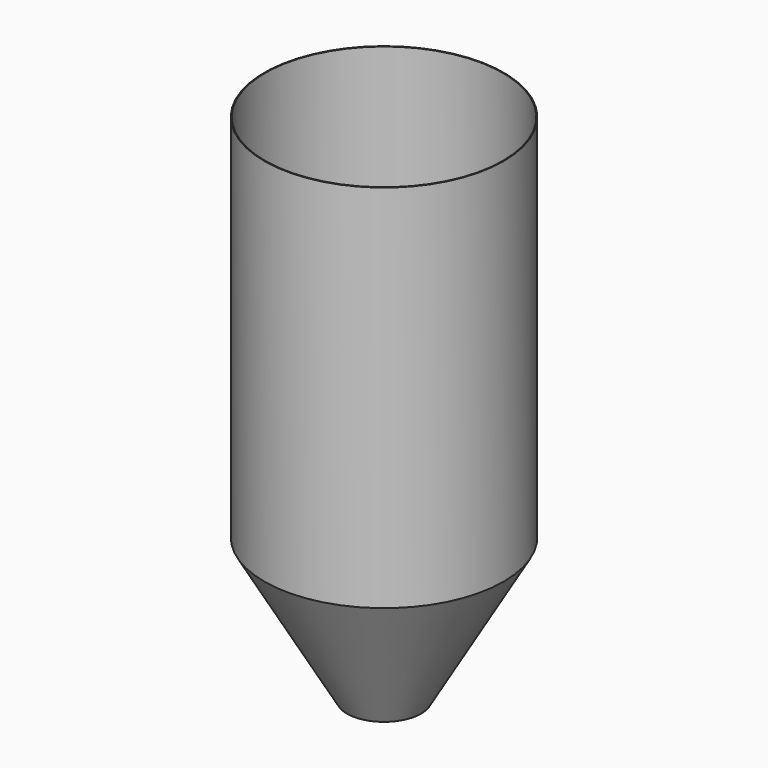
from build123d import *

# Parameters (mm, degrees)
F0_R          = 485
F1_DEPTH      = 1500
F1_DEPTH_BACK = 580
F1_TAPER_BACK = 30
F2_T          = -3


with BuildPart() as f1:
    # F0 (on Top) → F1 (new body, two sides)
    with BuildSketch(Plane.XY) as f1_sk:
        Circle(F0_R)
    extrude(amount=F1_DEPTH)
    extrude(f1_sk.sketch, amount=-F1_DEPTH_BACK, taper=F1_TAPER_BACK)

    # F2
    f2_openings = [f1.faces().sort_by_distance(p)[0] for p in [
        (0, 0, 1500),
    ]]
    offset(amount=F2_T, openings=f2_openings)


solid = f1.part
